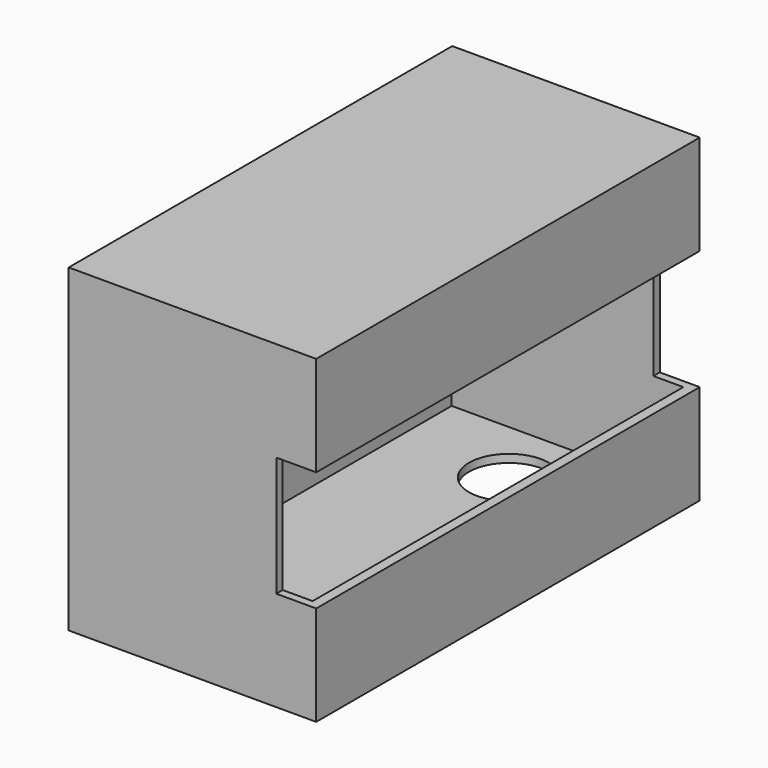
from build123d import *

# Parameters (mm, degrees)
F0_R       = 4.7625
F1_DEPTH   = 19.05
F2_W       = 3.175
F2_H       = 3.3072910916
F3_DEPTH   = 12.7
F4_W       = 152.4
F4_H       = 101.6
F5_DEPTH   = 76.2
F6_T       = -2.54
F7_W       = 152.4
F7_H       = 101.6
F8_DEPTH   = 3.175
F9_W       = 177.8
F9_H       = 38.1
F10_DEPTH  = 12.7
F11_R      = 12.7
F12_DEPTH  = 25.4
F13_R      = 0.79375
F14_DEPTH  = 4.7625
F15_SIZE   = 0.6858
F15_2_SIZE = 0.6858
F16_R      = 1.5875
F17_DEPTH  = 1.27
F18_R      = 0.762
F19_W      = 0.2193674445
F19_H      = 1.16994977
F20_DEPTH  = 0.762
F21_W      = 0.8484892041
F21_H      = 0.2032797784
F22_DEPTH  = 0.762


with BuildPart() as f1:
    # F0 (on Front) → F1 (new body, symmetric)
    with BuildSketch(Plane.XZ):
        Circle(F0_R)
    extrude(amount=F1_DEPTH, both=True)

    # F2 (on Right) → F3 (cut, symmetric)
    with BuildSketch(Plane.YZ):
        with Locations((0, 4.8286455458)):
            Rectangle(F2_W, F2_H)
        with Locations((9.525, 4.8286455458)):
            Rectangle(F2_W, F2_H)
        with Locations((-9.525, 4.8286455458)):
            Rectangle(F2_W, F2_H)
    extrude(amount=F3_DEPTH, both=True, mode=Mode.SUBTRACT)


with BuildPart() as f5:
    # F4 (on Right) → F5 (new body)
    with BuildSketch(Plane.YZ):
        with Locations((6.5414318815, 57.7133724002)):
            Rectangle(F4_W, F4_H)
    extrude(amount=F5_DEPTH)

    # F6
    f6_openings = [f5.faces().sort_by_distance(p)[0] for p in [
        (76.2, 6.541432, 57.713372),
    ]]
    offset(amount=F6_T, openings=f6_openings)

    # F7 (on face) → F8 (join)
    with BuildSketch(Plane.YZ.offset(76.2)):
        with Locations((6.5414318815, 57.7133724002)):
            Rectangle(F7_W, F7_H)
    extrude(amount=F8_DEPTH)

    # F9 (on face) → F10 (cut)
    with BuildSketch(Plane.YZ.offset(79.375)):
        with Locations((6.8365962322, 57.7133724002)):
            Rectangle(F9_W, F9_H)
    extrude(amount=-F10_DEPTH, mode=Mode.SUBTRACT)

    # F11 (on face) → F12 (cut)
    with BuildSketch(Plane(origin=(0, 0, 6.9133724002), x_dir=(1, 0, 0), z_dir=(0, 0, -1))):
        with Locations((37.6867502928, -59.0348131955)):
            Circle(F11_R)
    extrude(amount=-F12_DEPTH, mode=Mode.SUBTRACT)

    # F15#2
    f15_2_edges = [f5.edges().sort_by_distance(p)[0] for p in [
        (0, 82.741432, 57.713372),
        (0, 6.541432, 108.513372),
        (0, -69.658568, 57.713372),
        (0, 6.541432, 6.913372),
    ]]
    chamfer(f15_2_edges, length=F15_2_SIZE)


with BuildPart() as f14:
    # F13 (on Front) → F14 (new body)
    with BuildSketch(Plane.XZ):
        with Locations((-47.8815212846, 23.7973220646)):
            Circle(F13_R)
    extrude(amount=F14_DEPTH)

    # F15
    f15_edges = [f14.edges().sort_by_distance(p)[0] for p in [
        (-48.675271, -4.7625, 23.797322),
    ]]
    chamfer(f15_edges, length=F15_SIZE)

    # F16 (on face) → F17 (join)
    with BuildSketch(Plane(origin=(0, 0, 0), x_dir=(-1, 0, 0), z_dir=(0, 1, 0))):
        with Locations((47.8815212846, 23.7973220646)):
            Circle(F16_R)
    extrude(amount=F17_DEPTH)

    # F18
    f18_edges = [f14.edges().sort_by_distance(p)[0] for p in [
        (-46.294021, 1.27, 23.797322),
    ]]
    fillet(f18_edges, radius=F18_R)

    # F19 (on face) → F20 (cut)
    with BuildSketch(Plane(origin=(0, 1.27, 0), x_dir=(-1, 0, 0), z_dir=(0, 1, 0))):
        with Locations((47.8660054505, 23.7711463124)):
            Rectangle(F19_W, F19_H)
    extrude(amount=-F20_DEPTH, mode=Mode.SUBTRACT)

    # F21 (on face) → F22 (cut)
    with BuildSketch(Plane(origin=(0, 1.27, 0), x_dir=(-1, 0, 0), z_dir=(0, 1, 0))):
        with Locations((47.8733357295, 23.7765004858)):
            Rectangle(F21_W, F21_H)
    extrude(amount=-F22_DEPTH, mode=Mode.SUBTRACT)


solid = Compound([f1.part, f5.part, f14.part])
